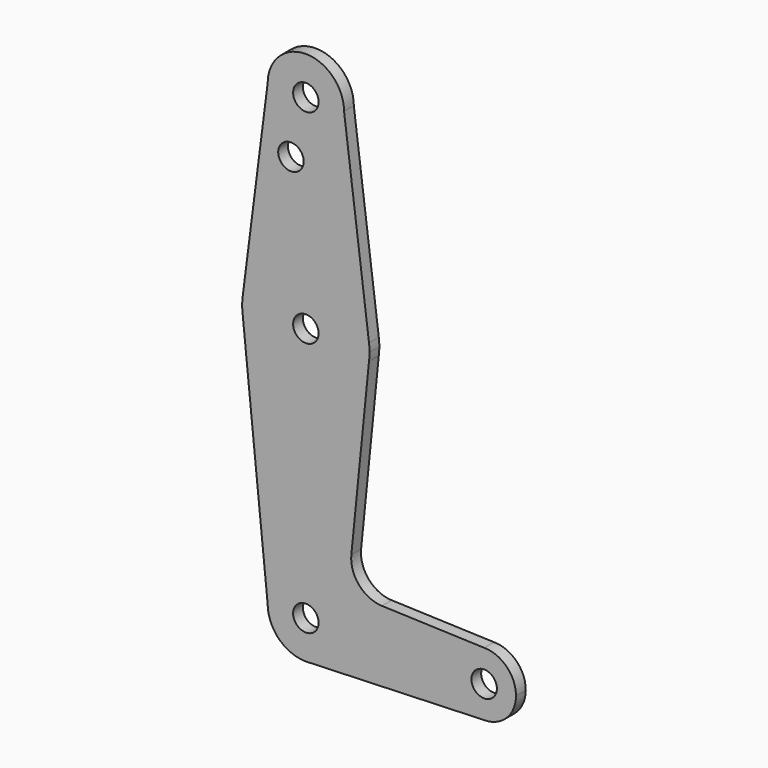
from build123d import *

# Parameters (mm, degrees)
F0_R     = 3.175
F1_DEPTH = 3.048


with BuildPart() as f1:
    # F0 (on Front) → F1 (new body)
    with BuildSketch(Plane.XZ):
        with BuildLine():
            Line((-9.525, 114.3), (-15.747457, 65.508289))
            ThreePointArc((-15.747457, 65.508289), (0, 79.375), (15.747457, 65.508289))
            Line((15.747457, 65.508289), (9.525, 114.3))
            ThreePointArc((9.525, 114.3), (0, 104.775), (-9.525, 114.3))
        make_face()
        with Locations((-3.719149, 100.0252)):
            Circle(F0_R, mode=Mode.SUBTRACT)
        with BuildLine():
            ThreePointArc((9.525, 114.3), (0, 123.825), (-9.525, 114.3))
            ThreePointArc((-9.525, 114.3), (0, 104.775), (9.525, 114.3))
        make_face()
        with Locations((0, 114.3)):
            Circle(F0_R, mode=Mode.SUBTRACT)
        with BuildLine():
            ThreePointArc((-15.747457, 65.508289), (-15.875, 63.5), (-15.747457, 61.491711))
            ThreePointArc((-15.747457, 61.491711), (0, 47.625), (15.747457, 61.491711))
            ThreePointArc((15.747457, 61.491711), (15.843082, 62.493832), (15.875, 63.5))
            ThreePointArc((15.875, 63.5), (15.843082, 64.506168), (15.747457, 65.508289))
            ThreePointArc((15.747457, 65.508289), (0, 79.375), (-15.747457, 65.508289))
        make_face()
        with Locations((0, 63.5)):
            Circle(F0_R, mode=Mode.SUBTRACT)
        with BuildLine():
            ThreePointArc((-9.525, 0), (0, 9.525), (9.525, 0))
            ThreePointArc((9.525, 0), (6.97129, -6.490511), (0.67949, -9.500732))
            Line((0.67949, -9.500732), (44.45, -7.9375))
            ThreePointArc((44.45, -7.9375), (36.5125, 0), (44.45, 7.9375))
            Line((44.45, 7.9375), (18.965536, 8.847659))
            ThreePointArc((18.965536, 8.847659), (13.259249, 11.565454), (11.33887, 17.587102))
            Line((11.33887, 17.587102), (15.747457, 61.491711))
            ThreePointArc((15.747457, 61.491711), (0, 47.625), (-15.747457, 61.491711))
            Line((-15.747457, 61.491711), (-9.525, 0))
        make_face()
        with BuildLine():
            ThreePointArc((0.67949, -9.500732), (6.97129, -6.490511), (9.525, 0))
            ThreePointArc((9.525, 0), (0, 9.525), (-9.525, 0))
            ThreePointArc((-9.525, 0), (-6.735192, -6.735192), (0, -9.525))
            Line((0, -9.525), (0.67949, -9.500732))
        make_face()
        Circle(F0_R, mode=Mode.SUBTRACT)
        with BuildLine():
            ThreePointArc((44.45, 7.9375), (36.5125, 0), (44.45, -7.9375))
            ThreePointArc((44.45, -7.9375), (50.06266, -5.61266), (52.3875, 0))
            ThreePointArc((52.3875, 0), (50.06266, 5.61266), (44.45, 7.9375))
        make_face()
        with Locations((44.45, 0)):
            Circle(F0_R, mode=Mode.SUBTRACT)
    extrude(amount=F1_DEPTH)


solid = f1.part
